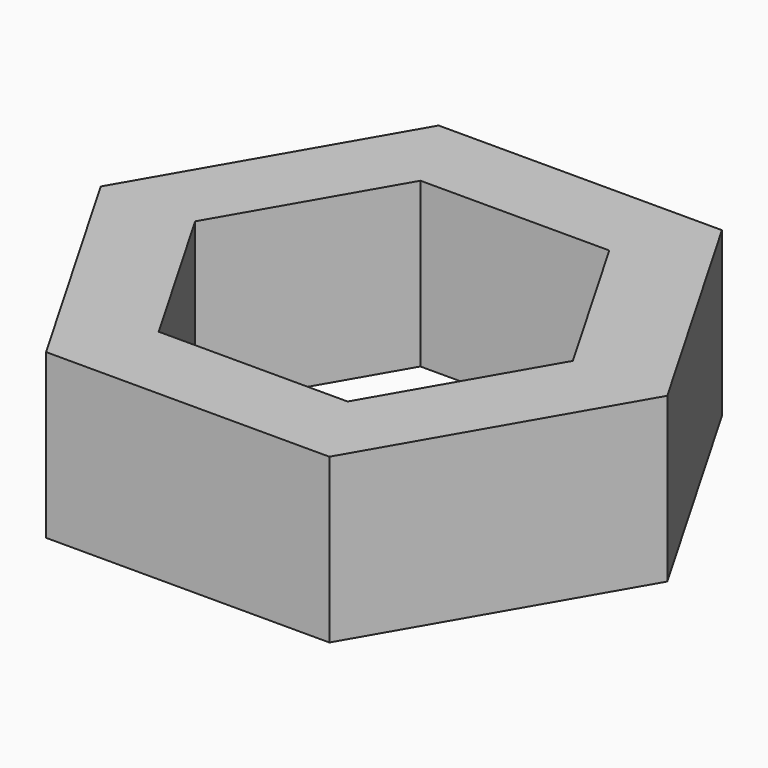
from build123d import *

# Parameters (mm, degrees)
F2_DEPTH = 6.35
F4_DEPTH = 6.35


with BuildPart() as f2:
    # F1 (on offset) → F2 (new body)
    with BuildSketch(Plane.XY.offset(38.1)):
        Polygon((5.499261314, -9.525), (10.9985226281, 0), (5.499261314, 9.525), (-5.499261314, 9.525), (-10.9985226281, 0), (-5.499261314, -9.525), align=None)
    extrude(amount=F2_DEPTH)

    # F3 (on face) → F4 (cut)
    with BuildSketch(Plane.XY.offset(44.45)):
        Polygon((3.6661742094, -6.35), (7.3323484187, 0), (3.6661742094, 6.35), (-3.6661742094, 6.35), (-7.3323484187, 0), (-3.6661742094, -6.35), align=None)
    extrude(amount=-F4_DEPTH, mode=Mode.SUBTRACT)


solid = f2.part
